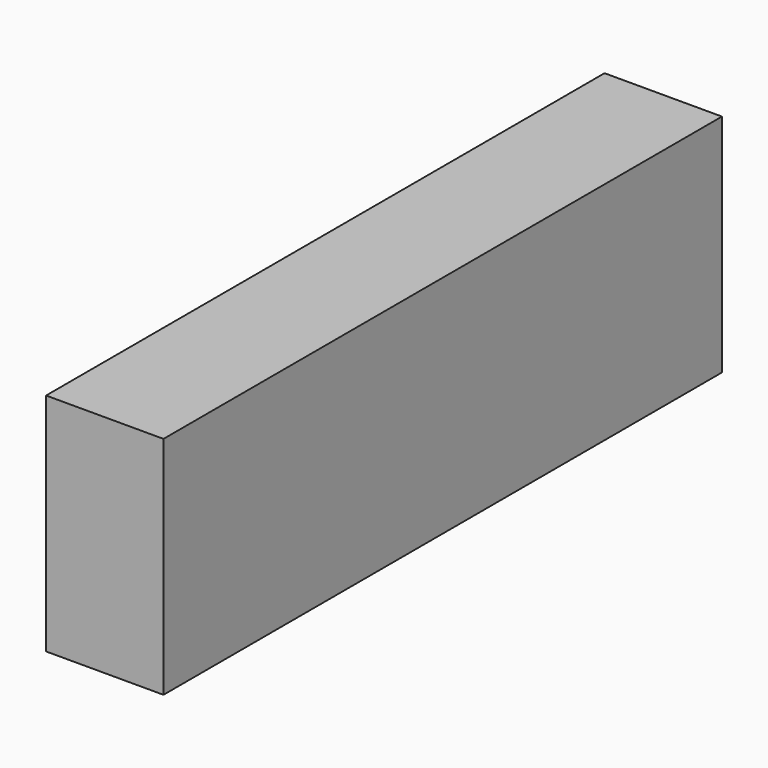
from build123d import *

# Parameters (mm, degrees)
F1_DEPTH = 12.7


with BuildPart() as f1:
    # F0 (on Top) → F1 (new body, symmetric)
    with BuildSketch(Plane.XY):
        Polygon((6.6172075458, 62.59521842), (-6.6172075458, 62.59521842), (-6.6172075458, 57.2299174964), (-6.6172075458, 45.0685583055), (-6.6172075458, -16.0959176719), (6.6172075458, -16.0959176719), (6.6172075458, 45.0685583055), (6.6172075458, 57.2299174964), align=None)
    extrude(amount=F1_DEPTH, both=True)


solid = f1.part
